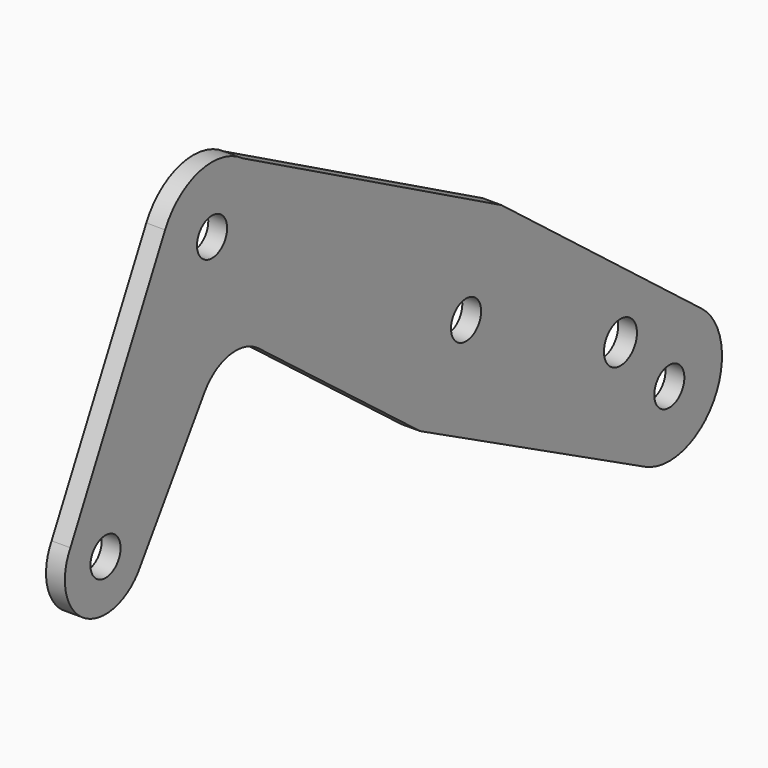
from build123d import *

# Parameters (mm, degrees)
F0_R     = 3.175
F0_R_2   = 3.480539
F1_DEPTH = 3.175


with BuildPart() as f1:
    # F0 (on Right) → F1 (new body)
    with BuildSketch(Plane.YZ):
        with BuildLine():
            Line((-20.479493, 49.612379), (-40.449341, 10.523025))
            ThreePointArc((-40.449341, 10.523025), (-37.379544, -1.196487), (-25.655764, 1.856969))
            Line((-25.655764, 1.856969), (-12.196376, 22.078278))
            ThreePointArc((-12.196376, 22.078278), (-6.880365, 25.515999), (-0.738646, 23.980683))
            Line((-0.738646, 23.980683), (33.314352, -2.146914))
            Line((33.314352, -2.146914), (38.262129, -4.710431))
            Line((38.262129, -4.710431), (80.715019, -26.705906))
            ThreePointArc((80.715019, -26.705906), (95.19879, -22.810716), (92.610659, -8.037304))
            Line((92.610659, -8.037304), (54.615279, 21.245541))
            Line((54.615279, 21.245541), (50.454967, 24.451873))
            Line((50.454967, 24.451873), (-4.090973, 53.575302))
            ThreePointArc((-4.090973, 53.575302), (-13.195447, 55.357994), (-20.479493, 49.612379))
        make_face()
        with Locations((-33.046512, 6.200309)):
            Circle(F0_R, mode=Mode.SUBTRACT)
        with Locations((85.827155, -16.839106)):
            Circle(F0_R, mode=Mode.SUBTRACT)
        with Locations((42.977931, 10.447961)):
            Circle(F0_R, mode=Mode.SUBTRACT)
        with Locations((75.531762, -6.115201)):
            Circle(F0_R_2, mode=Mode.SUBTRACT)
        with Locations((-10.583599, 44.556794)):
            Circle(F0_R, mode=Mode.SUBTRACT)
    extrude(amount=F1_DEPTH)


solid = f1.part
